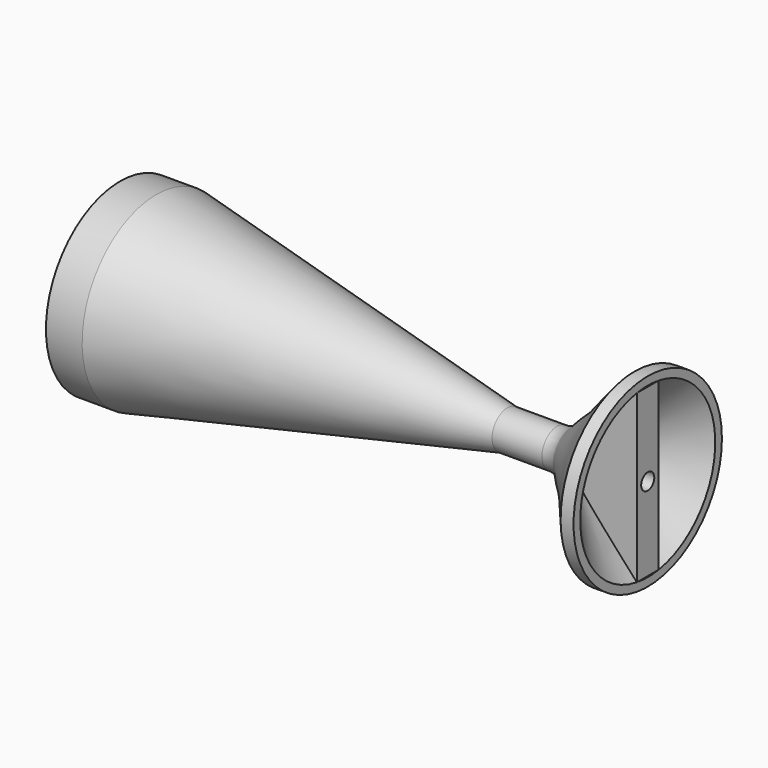
from build123d import *

# Parameters (mm, degrees)
F4_W      = 5
F4_H      = 30.5469320461
F6_W      = 5
F6_H      = 26.4217317555
F8_R      = 1.5
F9_DEPTH  = 96.7388454146
F10_R     = 1.5
F11_DEPTH = 96.7388453146
F12_R     = 26.7019871491
F12_R_2   = 17
F13_DEPTH = 96.7388453146


with BuildPart() as f1:
    # F0 (on Front) → F1 (revolve)
    with BuildSketch(Plane.XZ):
        with BuildLine():
            Line((268.3902070652, -65.7638534904), (268.3902070652, -61.2405703372))
            add(Edge.make_bspline(
                [(268.3902070652, -61.2405703372), (267.8550149212, -61.94707859), (266.5621733522, -63.6537635506), (262.7827235281, -67.9883815252), (259.1049731221, -72.5520199027), (256.3829698169, -74.7943444767), (254.6676374758, -77.1066096601), (252.8988280895, -77.730971982), (252.1214837272, -77.7382459282), (251.7798841, -77.7405703372)],
                knots=[0, 0, 0, 0, 0.1367464843, 0.3303309199, 0.5265232792, 0.6771480714, 0.8105734062, 0.9167648438, 1, 1, 1, 1], degree=3))
            Line((251.7798841, -77.7405703372), (242.6421940327, -77.7405703372))
            Line((242.6421940327, -77.7405703372), (242.6421940327, -81.2405703372))
            Line((242.6421940327, -81.2405703372), (254.264831543, -81.2405703372))
            Line((254.264831543, -81.2405703372), (268.3902070652, -65.7638534904))
        make_face()
    revolve(axis=Axis((248.4535127878, 0, -81.2405703372), (1, 0, 0)))

    # F4 (on face) → F5 (join, up to the next surface of F1)
    with BuildSketch(Plane.YZ.offset(268.3902070652)):
        with Locations((0, -81.2405703372)):
            Rectangle(F4_W, F4_H)
    extrude(until=Until.NEXT, dir=(-1, 0, 0))


with BuildPart() as f3:
    # F2 (on Front) → F3 (revolve)
    with BuildSketch(Plane.XZ):
        Polygon((242.6421940327, -77.7405703372), (171.6523617506, -62.8490278429), (171.6523617506, -67.7952374205), (235.7479333878, -81.2405703372), (242.6421940327, -81.2405703372), align=None)
    revolve(axis=Axis((239.1950637102, 0, -81.2405703372), (-1, 0, 0)))

    # F6 (on face) → F7 (join, up to the next surface of F3)
    with BuildSketch(Plane(origin=(171.6523617506, 0, 0), x_dir=(0, -1, 0), z_dir=(-1, 0, 0))):
        with Locations((0, -81.2405703372)):
            Rectangle(F6_W, F6_H)
    extrude(until=Until.NEXT, dir=(1, 0, 0))


with BuildPart() as f9_tool:
    # F8 (on face) → F9 (new body, through all)
    with BuildSketch(Plane(origin=(171.6523617506, 0, 0), x_dir=(0, -1, 0), z_dir=(-1, 0, 0))):
        with Locations((0, -81.2405703372)):
            Circle(F8_R)
    extrude(amount=-F9_DEPTH)


with BuildPart() as f1_1:
    add(f1.part)

    # F9: cut by f9_tool
    add(f9_tool.part, mode=Mode.SUBTRACT)

    # F10 (on face) → F11 (cut, through all)
    with BuildSketch(Plane.YZ.offset(268.3902070652)):
        with Locations((0, -81.2405703372)):
            Circle(F10_R)
    extrude(amount=-F11_DEPTH, mode=Mode.SUBTRACT)


with BuildPart() as f3_1:
    add(f3.part)

    # F9: cut by f9_tool
    add(f9_tool.part, mode=Mode.SUBTRACT)


with BuildPart() as f13_tool:
    # F12 (on face) → F13 (new body, through all)
    with BuildSketch(Plane.YZ.offset(268.3902070652)):
        with Locations((0, -81.2405703372)):
            Circle(F12_R)
        with Locations((0, -81.2405703372)):
            Circle(F12_R_2, mode=Mode.SUBTRACT)
    extrude(amount=-F13_DEPTH)


with BuildPart() as f1_2:
    add(f1_1.part)

    # F13: cut by f13_tool
    add(f13_tool.part, mode=Mode.SUBTRACT)


with BuildPart() as f3_2:
    add(f3_1.part)

    # F13: cut by f13_tool
    add(f13_tool.part, mode=Mode.SUBTRACT)


solid = Compound([f1_2.part, f3_2.part])
